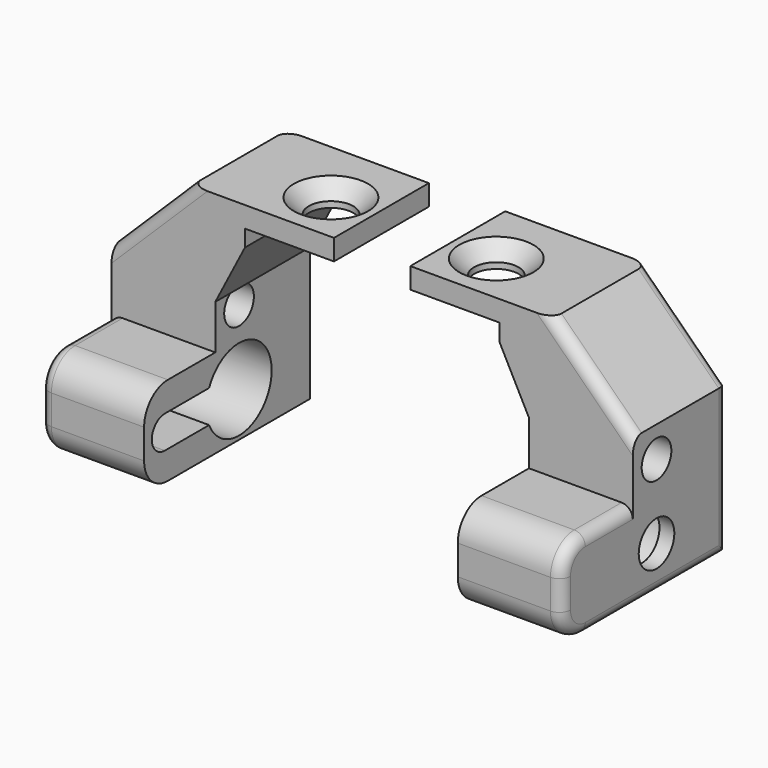
from build123d import *

# Parameters (mm, degrees)
F1_DEPTH       = 8
F3_D           = 3
F3_CSINK_D     = 5
F3_CSINK_ANGLE = 90
F5_W           = 7
F5_H           = 6
F6_DEPTH       = 6
F7_D           = 3
F7_CBORE_D     = 5.5
F7_CBORE_DEPTH = 6
F8_DEPTH       = 3
F9_D           = 2.2
F9_DEPTH       = 6
F9_TIP         = 0.6609466809
F10_R          = 2
F11_R          = 0.75
F12_D          = 2.5
F12_DEPTH      = 7.001


with BuildPart() as f1:
    # F0 (on Front) → F1 (new body)
    with BuildSketch(Plane.XZ):
        Polygon((-17.5740234554, 0), (-10.5740234554, 0), (-10.5740234554, 9), (-8.5740234554, 12.8761678934), (-8.5740234554, 14), (-2.5740234554, 14), (-2.5740234554, 15.4), (-12.1664005704, 15.4), (-17.5740234554, 10.0703090429), align=None)
    extrude(amount=F1_DEPTH)

    # F3 (through all)
    with Locations(Plane.XY.offset(15.4)):
        with Locations((-5.5740234554, -4.5)):
            CounterSinkHole(F3_D / 2, F3_CSINK_D / 2, counter_sink_angle=F3_CSINK_ANGLE)

    # F5 (on face) → F6 (join)
    with BuildSketch(Plane.XZ.offset(8)):
        with Locations((-14.0740234554, 3)):
            Rectangle(F5_W, F5_H)
    extrude(amount=F6_DEPTH)

    # F7 (through all)
    with Locations(Plane.YZ.offset(-10.5740234554)):
        with Locations((-6, 3)):
            CounterBoreHole(F7_D / 2, F7_CBORE_D / 2, F7_CBORE_DEPTH)

    # F4 (on face) → F8 (cut)
    with BuildSketch(Plane.YZ.offset(-10.5740234554)):
        with BuildLine():
            Line((-11.15, 3), (-8, 3))
            Line((-8, 3), (-8, 4.1))
            Line((-8, 4.1), (-12.25, 4.1))
            ThreePointArc((-12.25, 4.1), (-11.4721825407, 3.7778174593), (-11.15, 3))
        make_face()
        with BuildLine():
            Line((-8, 1.9), (-8, 3))
            Line((-8, 3), (-11.15, 3))
            ThreePointArc((-11.15, 3), (-11.4721825407, 2.2221825407), (-12.25, 1.9))
            Line((-12.25, 1.9), (-8, 1.9))
        make_face()
    extrude(amount=-F8_DEPTH, mode=Mode.SUBTRACT)

    # F9
    with Locations(Plane.YZ.offset(-10.5740234554)):
        with Locations((-12.25, 3)):
            Hole(F9_D / 2, depth=F9_DEPTH)
            with Locations((0, 0, -(F9_DEPTH + F9_TIP / 2))):  # 118° drill point
                Cone(0, F9_D / 2, F9_TIP, mode=Mode.SUBTRACT)

    # F10
    f10_edges = [f1.edges().sort_by_distance(p)[0] for p in [
        (-14.074023, -14, 6),
        (-14.074023, -14, 0),
    ]]
    fillet(f10_edges, radius=F10_R)

    # F11
    f11_edges = [f1.edges().sort_by_distance(p)[0] for p in [
        (-14.870212, 0, 12.735155),
        (-14.870212, -8, 12.735155),
        (-17.574023, 0, 5.035155),
        (-17.574023, -6, 0),
    ]]
    fillet(f11_edges, radius=F11_R)

    # F12 (through all, one way)
    with BuildSketch(Plane.YZ.offset(-10.5740234554)):
        with Locations((-6, 8)):
            Circle(F12_D / 2)
    extrude(amount=-F12_DEPTH, mode=Mode.SUBTRACT)


with BuildPart() as f13_1:
    # F13: instance of F1
    add(f1.part.mirror(Plane.YZ))


solid = Compound([f1.part, f13_1.part])
